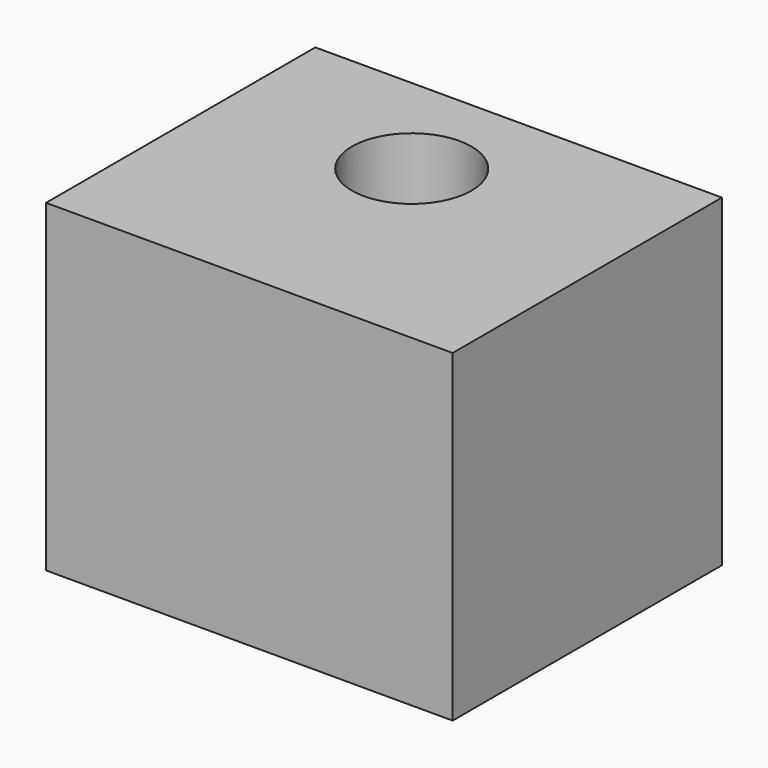
from build123d import *

# Parameters (mm, degrees)
F0_W     = 24.5453510433
F0_H     = 19.5398386568
F1_DEPTH = 25.4
F2_SIZE  = 5.08
F3_R     = 3.6099939591
F4_DEPTH = 19.5408386568


with BuildPart() as f1:
    # F0 (on Front) → F1 (new body)
    with BuildSketch(Plane.XZ):
        with Locations((-12.2726755217, 9.7699193284)):
            Rectangle(F0_W, F0_H)
    extrude(amount=F1_DEPTH)

    # F2
    f2_edges = [f1.edges().sort_by_distance(p)[0] for p in [
        (-12.272676, 0, 0),
        (0, 0, 9.769919),
        (-12.272676, 0, 19.539839),
        (-24.545351, 0, 9.769919),
    ]]
    chamfer(f2_edges, length=F2_SIZE)

    # F3 (on face) → F4 (cut, through all)
    with BuildSketch(Plane.XY.offset(19.5398386568)):
        with Locations((-13.2677108049, -11.9031285867)):
            Circle(F3_R)
    extrude(amount=-F4_DEPTH, mode=Mode.SUBTRACT)


solid = f1.part
